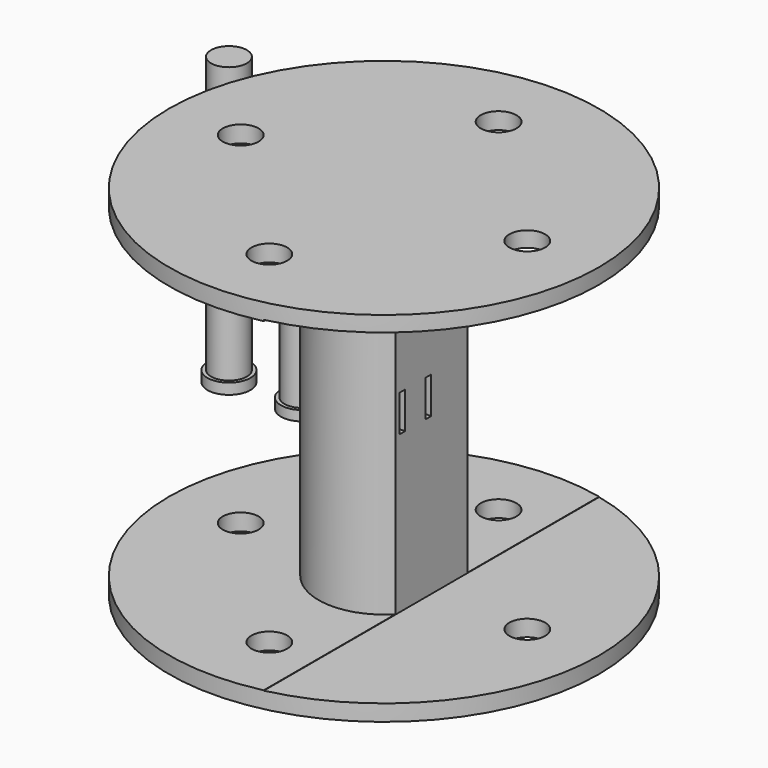
from build123d import *

# Parameters (mm, degrees)
F0_R      = 76.2
F1_DEPTH  = 127
F2_W      = 76.145089
F2_H      = 115.205428
F4_R      = 6.35
F5_DEPTH  = 136.906
F6_R      = 7.62
F6_R_2    = 6.35
F7_DEPTH  = 3.81
F8_DEPTH  = 101.6
F9_R      = 7.62
F9_R_2    = 6.35
F10_DEPTH = 3.556
F11_DEPTH = 101.6
F12_W     = 117.167409
F12_H     = 115.758444
F13_DEPTH = 88.9
F14_W     = 2.54
F14_H     = 13
F14_H_2   = 13.0048
F15_DEPTH = 29.21


with BuildPart() as f1:
    # F0 (on Top) → F1 (new body)
    with BuildSketch(Plane.XY):
        Circle(F0_R)
    extrude(amount=F1_DEPTH)

    # F2 (on Front) → F3 (revolve, cut)
    with BuildSketch(Plane.XZ):
        with Locations((61.249767, 63.500029)):
            Rectangle(F2_W, F2_H)
    revolve(axis=Axis((0, 0, 3.061064), (0, 0, 1)), mode=Mode.SUBTRACT)

    # F4 (on face) → F5 (cut)
    with BuildSketch(Plane.XY.offset(127)):
        with Locations((0, 50.8)):
            Circle(F4_R)
        with Locations((50.8, 0)):
            Circle(F4_R)
        with Locations((-50.8, 0)):
            Circle(F4_R)
        with Locations((0, -50.8)):
            Circle(F4_R)
    extrude(amount=-F5_DEPTH, mode=Mode.SUBTRACT)

    # F12 (on Front) → F13 (cut, symmetric)
    with BuildSketch(Plane.XZ):
        with Locations((75.409816, 63.655438)):
            Rectangle(F12_W, F12_H)
    extrude(amount=F13_DEPTH, both=True, mode=Mode.SUBTRACT)

    # F14 (on face) → F15 (cut)
    with BuildSketch(Plane.YZ.offset(16.826112)):
        with Locations((-12.956317, 67.802921)):
            Rectangle(F14_W, F14_H)
        with Locations((-1.416317, 67.805321)):
            Rectangle(F14_W, F14_H_2)
    extrude(amount=-F15_DEPTH, mode=Mode.SUBTRACT)


with BuildPart() as f7:
    # F6 (on Top) → F7 (new body)
    with BuildSketch(Plane.XY):
        with Locations((-113.153763, 72.74957)):
            Circle(F6_R)
        with Locations((-113.153763, 72.74957)):
            Circle(F6_R_2, mode=Mode.SUBTRACT)
    extrude(amount=F7_DEPTH)

    # F6 (on Top) → F8 (join)
    with BuildSketch(Plane.XY):
        with Locations((-113.153763, 72.74957)):
            Circle(F6_R_2)
    extrude(amount=F8_DEPTH)


with BuildPart() as f10:
    # F9 (on Top) → F10 (new body)
    with BuildSketch(Plane.XY):
        with Locations((-87.323353, 73.011138)):
            Circle(F9_R)
        with Locations((-87.323353, 73.011138)):
            Circle(F9_R_2, mode=Mode.SUBTRACT)
    extrude(amount=F10_DEPTH)

    # F9 (on Top) → F11 (join)
    with BuildSketch(Plane.XY):
        with Locations((-87.323353, 73.011138)):
            Circle(F9_R_2)
    extrude(amount=F11_DEPTH)


solid = Compound([f1.part, f7.part, f10.part])
